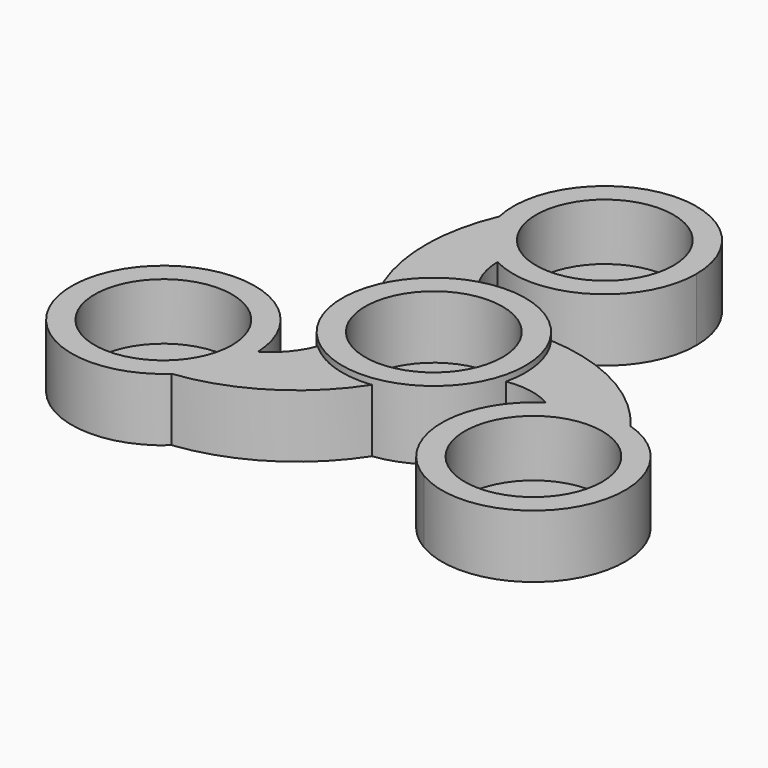
from build123d import *

# Parameters (mm, degrees)
F0_R     = 11.25
F1_DEPTH = 11.3
F2_DEPTH = 10.3
F3_DEPTH = 1
F4_COUNT = 3


with BuildPart() as f1:
    # F0 (on Top) → F1 (new body)
    with BuildSketch(Plane.XY):
        with BuildLine():
            ThreePointArc((-13.7861349529, 5.9112167157), (-3.0172815336, -14.6934002922), (15, 0))
            ThreePointArc((15, 0), (8.966550152, 12.0250146932), (-4.2801304497, 14.37638631))
            ThreePointArc((-4.2801304497, 14.37638631), (-9.9755832142, 11.2021310266), (-13.7861349529, 5.9112167157))
        make_face()
        Circle(F0_R, mode=Mode.SUBTRACT)
    extrude(amount=F1_DEPTH)

    # F0 (on Top) → F3, piece 2 (join)
    with BuildSketch(Plane.XY):
        Circle(F0_R)
    extrude(amount=F3_DEPTH)


with BuildPart() as f2:
    # F0 (on Top) → F2 (new body)
    with BuildSketch(Plane.XY):
        with BuildLine():
            ThreePointArc((-13.7861349529, 5.9112167157), (-9.9755832142, 11.2021310266), (-4.2801304497, 14.37638631))
            ThreePointArc((-4.2801304497, 14.37638631), (-6.2210800325, 17.8094268542), (-6.9187707298, 21.6909575255))
            ThreePointArc((-6.9187707298, 21.6909575255), (-11.8772069903, 25.8385615698), (-14.6297181304, 31.6876975642))
            ThreePointArc((-14.6297181304, 31.6876975642), (-17.0804392753, 18.7054488293), (-13.7861349529, 5.9112167157))
        make_face()
        with BuildLine():
            ThreePointArc((-14.6297181304, 31.6876975642), (-11.8772069903, 25.8385615698), (-6.9187707298, 21.6909575255))
            ThreePointArc((-6.9187707298, 21.6909575255), (7.7851923243, 22.178503189), (15, 35))
            ThreePointArc((15, 35), (-1.6664675281, 49.907142113), (-14.6297181304, 31.6876975642))
        make_face()
        with Locations((0, 35)):
            Circle(F0_R, mode=Mode.SUBTRACT)
    extrude(amount=F2_DEPTH)

    # F0 (on Top) → F3 (join)
    with BuildSketch(Plane.XY):
        with Locations((0, 35)):
            Circle(F0_R)
    extrude(amount=F3_DEPTH)


with BuildPart() as f4_1:
    # F4: instance of F2
    add(f2.part.rotate(Axis((0, 0, 11.3), (0, 0, -1)), 1 * 360 / F4_COUNT))


with BuildPart() as f4_2:
    # F4: instance of F2
    add(f2.part.rotate(Axis((0, 0, 11.3), (0, 0, -1)), 2 * 360 / F4_COUNT))


solid = Compound([f1.part, f2.part, f4_1.part, f4_2.part])
